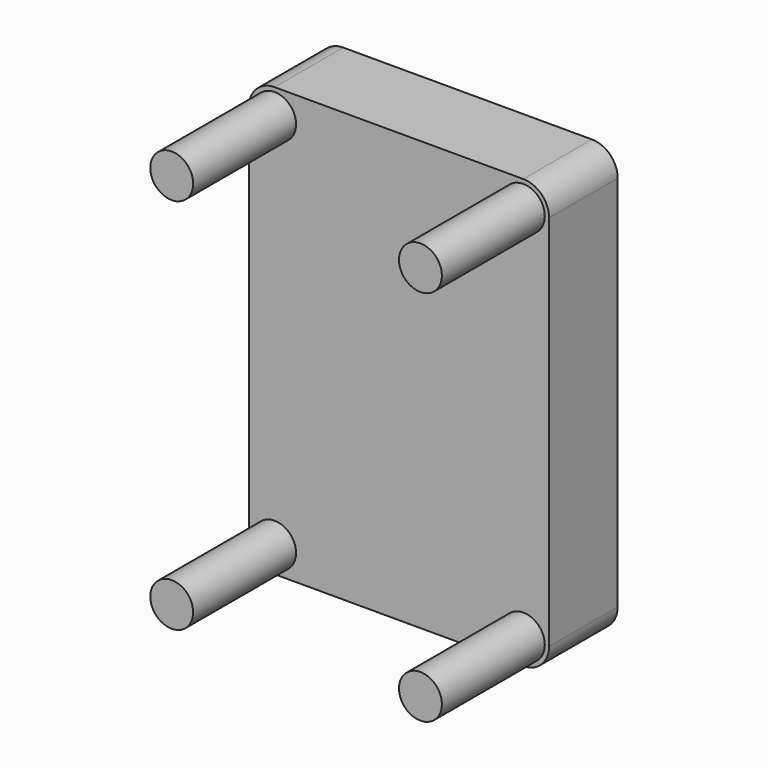
from build123d import *

# Parameters (mm, degrees)
F1_DEPTH = 25.4
F2_DEPTH = 12.7
F3_R     = 6.35
F4_DEPTH = 38.1


with BuildPart() as f1:
    # F0 (on Front) → F1 (new body)
    with BuildSketch(Plane.XZ):
        with BuildLine():
            ThreePointArc((44.45, 55.88), (42.218154, 61.268154), (36.83, 63.5))
            Line((36.83, 63.5), (-36.83, 63.5))
            ThreePointArc((-36.83, 63.5), (-42.218154, 61.268154), (-44.45, 55.88))
            Line((-44.45, 55.88), (-44.45, -55.88))
            ThreePointArc((-44.45, -55.88), (-42.218154, -61.268154), (-36.83, -63.5))
            Line((-36.83, -63.5), (36.83, -63.5))
            ThreePointArc((36.83, -63.5), (42.218154, -61.268154), (44.45, -55.88))
            Line((44.45, -55.88), (44.45, 55.88))
        make_face()
        with BuildLine():
            Line((-31.75, 57.15), (31.75, 57.15))
            ThreePointArc((31.75, 57.15), (36.240128, 55.290128), (38.1, 50.8))
            Line((38.1, 50.8), (38.1, -50.8))
            ThreePointArc((38.1, -50.8), (36.240128, -55.290128), (31.75, -57.15))
            Line((31.75, -57.15), (-31.75, -57.15))
            ThreePointArc((-31.75, -57.15), (-36.240128, -55.290128), (-38.1, -50.8))
            Line((-38.1, -50.8), (-38.1, 50.8))
            ThreePointArc((-38.1, 50.8), (-36.240128, 55.290128), (-31.75, 57.15))
        make_face(mode=Mode.SUBTRACT)
        with BuildLine():
            ThreePointArc((38.1, 50.8), (36.240128, 55.290128), (31.75, 57.15))
            Line((31.75, 57.15), (-31.75, 57.15))
            ThreePointArc((-31.75, 57.15), (-36.240128, 55.290128), (-38.1, 50.8))
            Line((-38.1, 50.8), (-38.1, -50.8))
            ThreePointArc((-38.1, -50.8), (-36.240128, -55.290128), (-31.75, -57.15))
            Line((-31.75, -57.15), (31.75, -57.15))
            ThreePointArc((31.75, -57.15), (36.240128, -55.290128), (38.1, -50.8))
            Line((38.1, -50.8), (38.1, 50.8))
        make_face()
    extrude(amount=F1_DEPTH)

    # F0 (on Front) → F2 (cut)
    with BuildSketch(Plane.XZ):
        with BuildLine():
            ThreePointArc((38.1, 50.8), (36.240128, 55.290128), (31.75, 57.15))
            Line((31.75, 57.15), (-31.75, 57.15))
            ThreePointArc((-31.75, 57.15), (-36.240128, 55.290128), (-38.1, 50.8))
            Line((-38.1, 50.8), (-38.1, -50.8))
            ThreePointArc((-38.1, -50.8), (-36.240128, -55.290128), (-31.75, -57.15))
            Line((-31.75, -57.15), (31.75, -57.15))
            ThreePointArc((31.75, -57.15), (36.240128, -55.290128), (38.1, -50.8))
            Line((38.1, -50.8), (38.1, 50.8))
        make_face()
    extrude(amount=F2_DEPTH, mode=Mode.SUBTRACT)

    # F3 (on face) → F4 (join)
    with BuildSketch(Plane.XZ.offset(25.4)):
        with Locations((-36.83, 55.88)):
            Circle(F3_R)
        with Locations((36.83, 55.88)):
            Circle(F3_R)
        with Locations((-36.83, -55.88)):
            Circle(F3_R)
        with Locations((36.83, -55.88)):
            Circle(F3_R)
    extrude(amount=F4_DEPTH)


solid = f1.part
